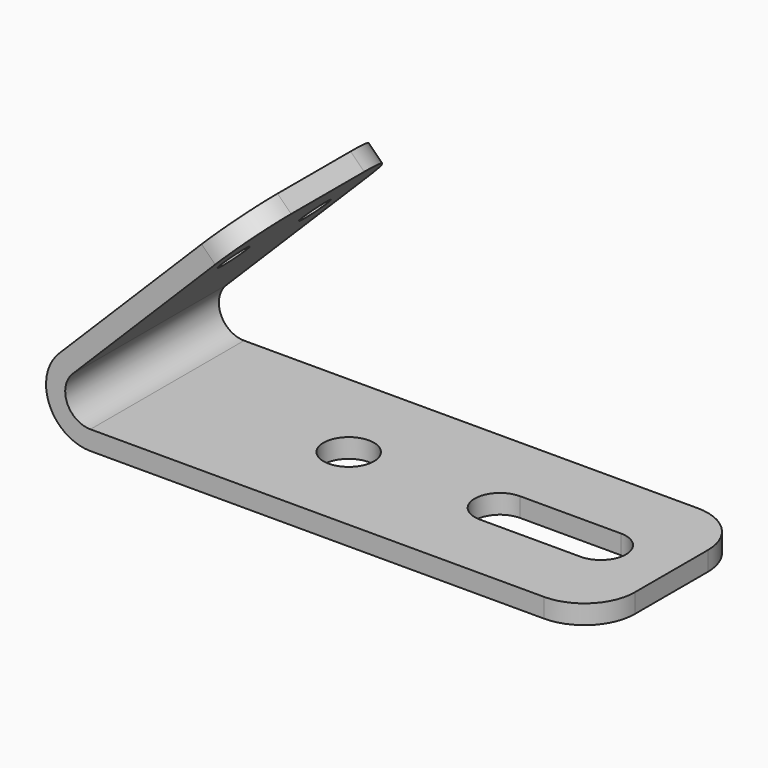
from build123d import *

# Parameters (mm, degrees)
F1_DEPTH = 19.05
F2_R     = 2.5
F3_DEPTH = 1.9
F4_R     = 1.5
F5_DEPTH = 1.9
F6_R     = 5


with BuildPart() as f1:
    # F0 (on Front) → F1 (new body)
    with BuildSketch(Plane.XZ):
        with BuildLine():
            Line((-50, 0), (0, 0))
            Line((0, 0), (0, 1.9))
            Line((0, 1.9), (-50, 1.9))
            ThreePointArc((-50, 1.9), (-52.3096988313, 3.4432914191), (-51.767766953, 6.167766953))
            Line((-51.767766953, 6.167766953), (-34.0900974233, 23.8454364826))
            Line((-34.0900974233, 23.8454364826), (-35.4336003076, 25.1889393669))
            Line((-35.4336003076, 25.1889393669), (-53.1112698372, 7.5112698372))
            ThreePointArc((-53.1112698372, 7.5112698372), (-54.065069943, 2.7161928976), (-50, 0))
        make_face()
    extrude(amount=F1_DEPTH)

    # F2 (on face) → F3 (cut)
    with BuildSketch(Plane.XY.offset(1.9)):
        with Locations((-32, -9.525)):
            Circle(F2_R)
        with BuildLine():
            Line((-17, -12.025), (-7, -12.025))
            ThreePointArc((-7, -12.025), (-4.5, -9.525), (-7, -7.025))
            Line((-7, -7.025), (-17, -7.025))
            ThreePointArc((-17, -7.025), (-19.5, -9.525), (-17, -12.025))
        make_face()
    extrude(amount=-F3_DEPTH, mode=Mode.SUBTRACT)

    # F4 (on face) → F5 (cut)
    with BuildSketch(Plane(origin=(-30.3112698372, 0, 30.3112698372), x_dir=(0, -1, 0), z_dir=(-0.7071067812, 0, 0.7071067812))):
        with Locations((14.55, -14.7440692221)):
            Circle(F4_R)
        with Locations((4.5, -14.7440692221)):
            Circle(F4_R)
    extrude(amount=-F5_DEPTH, mode=Mode.SUBTRACT)

    # F6
    f6_edges = [f1.edges().sort_by_distance(p)[0] for p in [
        (-34.761849, 0, 24.517188),
        (-34.761849, -19.05, 24.517188),
        (0, -19.05, 0.95),
        (0, 0, 0.95),
    ]]
    fillet(f6_edges, radius=F6_R)


solid = f1.part
